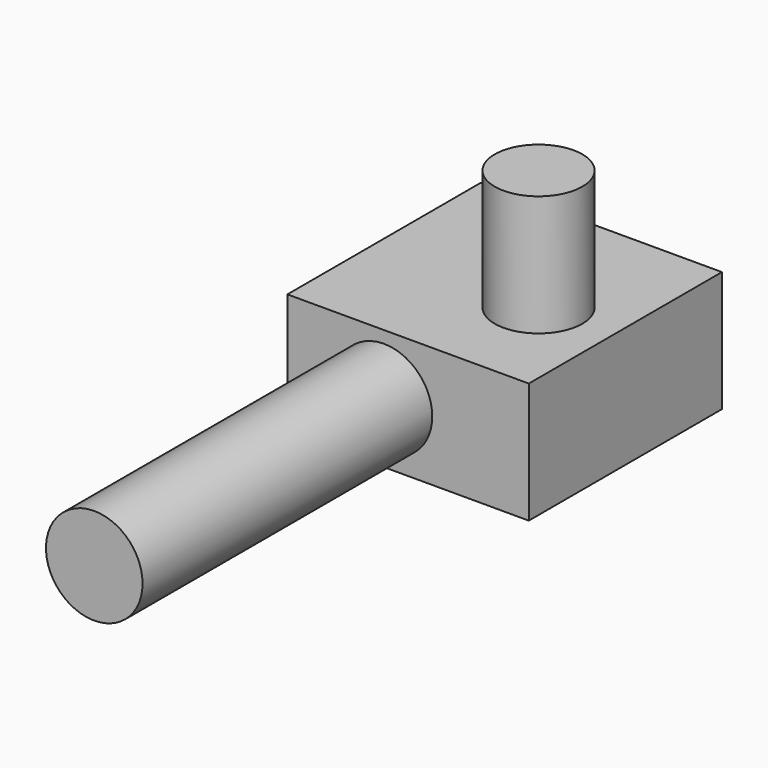
from build123d import *

# Parameters (mm, degrees)
F0_W     = 50.8
F0_H     = 50.8
F1_DEPTH = 25.4
F2_R     = 10.16
F3_DEPTH = 76.2
F4_R     = 9.221504
F5_DEPTH = 25.4


with BuildPart() as f1:
    # F0 (on Top) → F1 (new body)
    with BuildSketch(Plane.XY):
        with Locations((25.4, 25.4)):
            Rectangle(F0_W, F0_H)
    extrude(amount=F1_DEPTH)

    # F2 (on face) → F3 (join)
    with BuildSketch(Plane.XZ):
        with Locations((20.32, 12.7)):
            Circle(F2_R)
    extrude(amount=F3_DEPTH)

    # F4 (on face) → F5 (join)
    with BuildSketch(Plane.XY.offset(25.4)):
        with Locations((35.16157, 22.115249)):
            Circle(F4_R)
    extrude(amount=F5_DEPTH)


solid = f1.part
